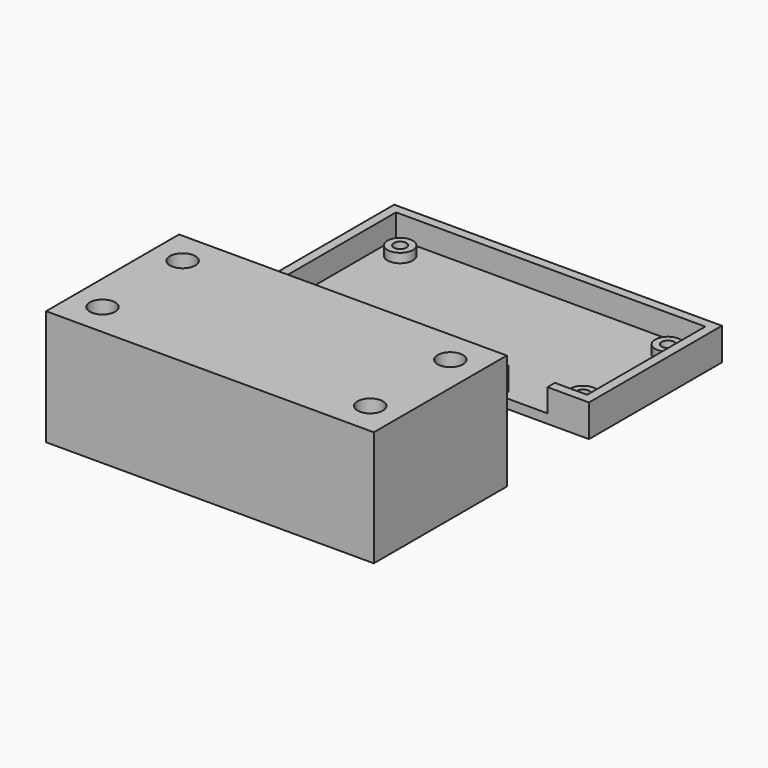
from build123d import *

# Parameters (mm, degrees)
F0_W     = 10
F0_H     = 2
F0_R     = 2.75
F0_R_2   = 1.375
F1_DEPTH = 2
F2_DEPTH = 7
F3_DEPTH = 4
F4_SIZE  = 1.5
F5_W     = 71
F5_H     = 18
F5_R     = 2.75
F5_R_2   = 1.375
F6_DEPTH = 2
F7_DEPTH = 25


with BuildPart() as f1:
    # F0 (on Top) → F1 (new body)
    with BuildSketch(Plane.XY):
        with Locations((21.5, -17)):
            Rectangle(F0_W, F0_H)
        Polygon((26.5, -15), (32.5, -15), (32.5, 15), (-32.5, 15), (-32.5, -15), (16.5, -15), (21.5, -15), align=None)
        with Locations((-29, -11.5)):
            Circle(F0_R, mode=Mode.SUBTRACT)
        with Locations((29, -11.5)):
            Circle(F0_R, mode=Mode.SUBTRACT)
        with Locations((-29, 11.5)):
            Circle(F0_R, mode=Mode.SUBTRACT)
        with Locations((29, 11.5)):
            Circle(F0_R, mode=Mode.SUBTRACT)
        Polygon((33.5, -16), (26.5, -16), (26.5, -18), (35.5, -18), (35.5, 18), (-35.5, 18), (-35.5, -18), (16.5, -18), (16.5, -16), (-33.5, -16), (-33.5, 16), (33.5, 16), align=None)
        Polygon((32.5, 15), (32.5, -15), (26.5, -15), (26.5, -16), (33.5, -16), (33.5, 16), (-33.5, 16), (-33.5, -16), (16.5, -16), (16.5, -15), (-32.5, -15), (-32.5, 15), align=None)
        with Locations((29, 11.5)):
            Circle(F0_R)
        with Locations((29, 11.5)):
            Circle(F0_R_2, mode=Mode.SUBTRACT)
        with Locations((29, -11.5)):
            Circle(F0_R)
        with Locations((29, -11.5)):
            Circle(F0_R_2, mode=Mode.SUBTRACT)
        Polygon((26.5, -16), (26.5, -15), (21.5, -15), (16.5, -15), (16.5, -16), align=None)
        with Locations((-29, 11.5)):
            Circle(F0_R)
        with Locations((-29, 11.5)):
            Circle(F0_R_2, mode=Mode.SUBTRACT)
        with Locations((-29, -11.5)):
            Circle(F0_R)
        with Locations((-29, -11.5)):
            Circle(F0_R_2, mode=Mode.SUBTRACT)
    extrude(amount=F1_DEPTH)

    # F0 (on Top) → F2 (join)
    with BuildSketch(Plane.XY):
        Polygon((33.5, -16), (26.5, -16), (26.5, -18), (35.5, -18), (35.5, 18), (-35.5, 18), (-35.5, -18), (16.5, -18), (16.5, -16), (-33.5, -16), (-33.5, 16), (33.5, 16), align=None)
    extrude(amount=F2_DEPTH)

    # F0 (on Top) → F3 (join)
    with BuildSketch(Plane.XY):
        with Locations((-29, -11.5)):
            Circle(F0_R)
        with Locations((-29, -11.5)):
            Circle(F0_R_2, mode=Mode.SUBTRACT)
        with Locations((-29, 11.5)):
            Circle(F0_R)
        with Locations((-29, 11.5)):
            Circle(F0_R_2, mode=Mode.SUBTRACT)
        with Locations((29, -11.5)):
            Circle(F0_R)
        with Locations((29, -11.5)):
            Circle(F0_R_2, mode=Mode.SUBTRACT)
        with Locations((29, 11.5)):
            Circle(F0_R)
        with Locations((29, 11.5)):
            Circle(F0_R_2, mode=Mode.SUBTRACT)
    extrude(amount=F3_DEPTH)

    # F4
    f4_edges = [f1.edges().sort_by_distance(p)[0] for p in [
        (-30.375, -11.5, 0),
        (-30.375, 11.5, 0),
        (27.625, -11.5, 0),
        (27.625, 11.5, 0),
    ]]
    chamfer(f4_edges, length=F4_SIZE)


with BuildPart() as f6:
    # F5 (on Top) → F6 (new body)
    with BuildSketch(Plane.XY):
        with Locations((0, -49.2588068703)):
            Rectangle(F5_W, F5_H)
        with Locations((-29, -47.4087968469)):
            Circle(F5_R, mode=Mode.SUBTRACT)
        with Locations((29, -47.4087968469)):
            Circle(F5_R, mode=Mode.SUBTRACT)
        with Locations((0, -67.2588068703)):
            Rectangle(F5_W, F5_H)
        with Locations((-29, -69.1088168938)):
            Circle(F5_R, mode=Mode.SUBTRACT)
        with Locations((29, -69.1088168938)):
            Circle(F5_R, mode=Mode.SUBTRACT)
        with Locations((-29, -47.4087968469)):
            Circle(F5_R)
        with Locations((-29, -47.4087968469)):
            Circle(F5_R_2, mode=Mode.SUBTRACT)
        with Locations((29, -47.4087968469)):
            Circle(F5_R)
        with Locations((29, -47.4087968469)):
            Circle(F5_R_2, mode=Mode.SUBTRACT)
        with Locations((-29, -69.1088168938)):
            Circle(F5_R)
        with Locations((-29, -69.1088168938)):
            Circle(F5_R_2, mode=Mode.SUBTRACT)
        with Locations((29, -69.1088168938)):
            Circle(F5_R)
        with Locations((29, -69.1088168938)):
            Circle(F5_R_2, mode=Mode.SUBTRACT)
        with Locations((-29, -47.4087968469)):
            Circle(F5_R_2)
        with Locations((29, -47.4087968469)):
            Circle(F5_R_2)
        with Locations((-29, -69.1088168938)):
            Circle(F5_R_2)
        with Locations((29, -69.1088168938)):
            Circle(F5_R_2)
    extrude(amount=F6_DEPTH)

    # F5 (on Top) → F7 (join)
    with BuildSketch(Plane.XY):
        with Locations((0, -67.2588068703)):
            Rectangle(F5_W, F5_H)
        with Locations((-29, -69.1088168938)):
            Circle(F5_R, mode=Mode.SUBTRACT)
        with Locations((29, -69.1088168938)):
            Circle(F5_R, mode=Mode.SUBTRACT)
        with Locations((0, -49.2588068703)):
            Rectangle(F5_W, F5_H)
        with Locations((-29, -47.4087968469)):
            Circle(F5_R, mode=Mode.SUBTRACT)
        with Locations((29, -47.4087968469)):
            Circle(F5_R, mode=Mode.SUBTRACT)
    extrude(amount=F7_DEPTH)


solid = Compound([f1.part, f6.part])
